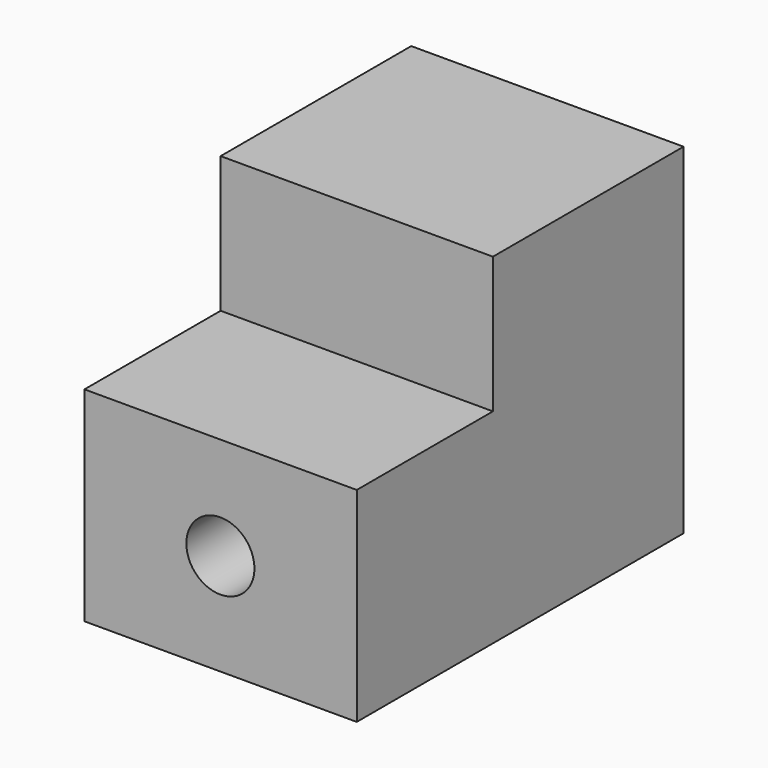
from build123d import *

# Parameters (mm, degrees)
F0_W     = 101.6
F0_H     = 152.4
F1_DEPTH = 127
F2_W     = 63.5
F2_H     = 50.8
F3_DEPTH = 101.601
F5_R     = 12.7
F6_DEPTH = 152.401


with BuildPart() as f1:
    # F0 (on Top) → F1 (new body)
    with BuildSketch(Plane.XY):
        with Locations((-6.336666, 29.239635)):
            Rectangle(F0_W, F0_H)
    extrude(amount=F1_DEPTH)

    # F2 (on face) → F3 (cut, through all)
    with BuildSketch(Plane(origin=(-57.136666, 0, 0), x_dir=(0, -1, 0), z_dir=(-1, 0, 0))):
        with Locations((15.210365, 101.6)):
            Rectangle(F2_W, F2_H)
    extrude(amount=-F3_DEPTH, mode=Mode.SUBTRACT)

    # F5 (on face) → F6 (cut, through all)
    with BuildSketch(Plane(origin=(0, 105.439635, 0), x_dir=(-1, 0, 0), z_dir=(0, 1, 0))):
        with Locations((6.424577, 37.966158)):
            Circle(F5_R)
    extrude(amount=-F6_DEPTH, mode=Mode.SUBTRACT)


solid = f1.part
